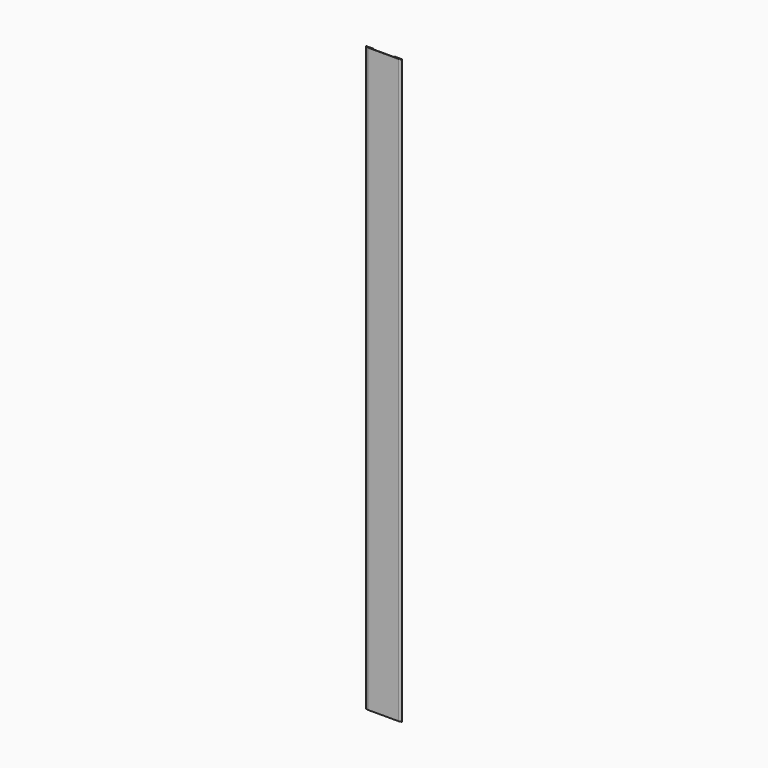
from build123d import *

# Parameters (mm, degrees)
F1_DEPTH = 2413


with BuildPart() as f1:
    # F0 (on Top) → F1 (new body)
    with BuildSketch(Plane.XY):
        Polygon((-29.160699, -164.030279), (-29.160699, -165.00214), (-27.10009, -165.554279), (2.596134, -165.554279), (2.596134, -164.030279), align=None)
        Polygon((-29.867123, -166.390625), (-19.045504, -169.290263), (108.771207, -169.290263), (119.592801, -166.390625), (119.198365, -164.918542), (119.081956, -164.949734), (116.825774, -165.554279), (108.570573, -167.766263), (-9.583649, -167.766263), (-18.84487, -167.766263), (-27.10009, -165.554279), (-29.160699, -165.00214), (-29.472687, -164.918542), align=None)
        Polygon((116.825774, -165.554279), (119.081956, -164.949734), (119.081956, -164.030279), (87.325124, -164.030279), (87.325124, -165.554279), align=None)
    extrude(amount=F1_DEPTH)


solid = f1.part
